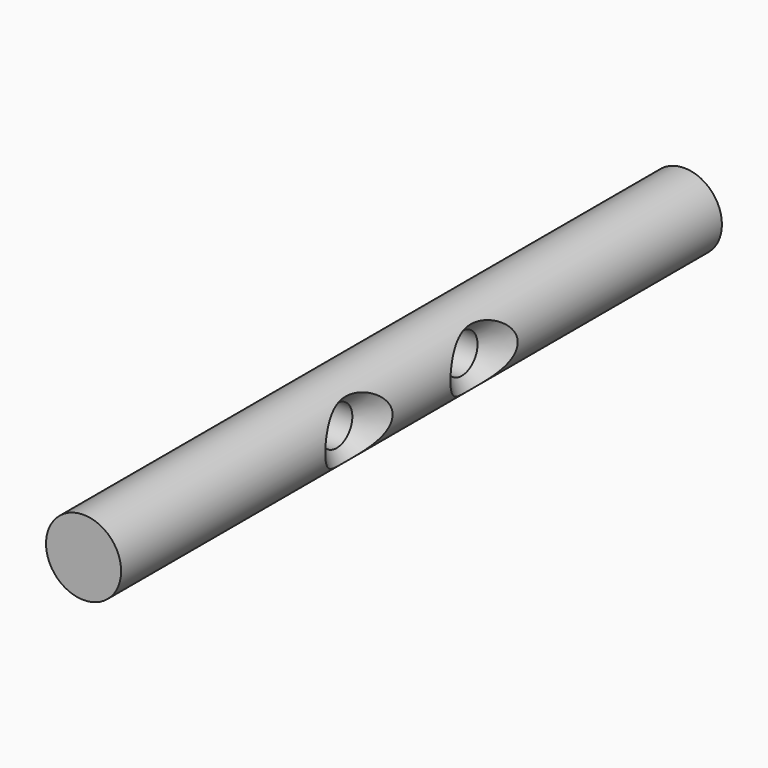
from build123d import *

# Parameters (mm, degrees)
F0_R           = 6
F1_DEPTH       = 60
F3_D           = 6.3
F3_CSINK_D     = 13.44
F3_CSINK_ANGLE = 90


with BuildPart() as f1:
    # F0 (on Front) → F1 (new body, symmetric)
    with BuildSketch(Plane.XZ):
        with Locations((-6, 0)):
            Circle(F0_R)
    extrude(amount=F1_DEPTH, both=True)

    # F3 (through all)
    with Locations(Plane.YZ):
        with Locations((12.5, 0), (-12.5, 0)):
            CounterSinkHole(F3_D / 2, F3_CSINK_D / 2, counter_sink_angle=F3_CSINK_ANGLE)


solid = f1.part
